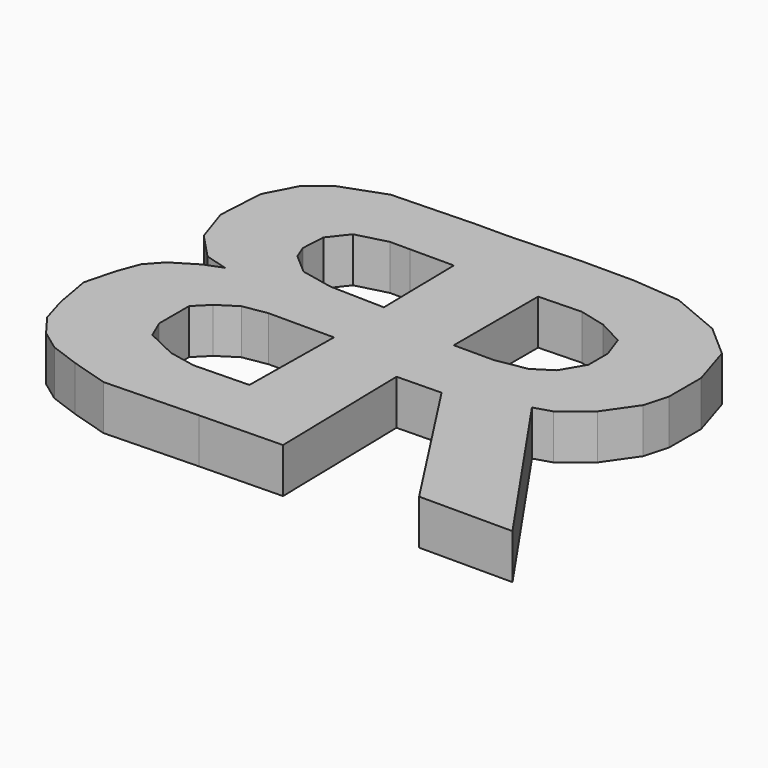
from build123d import *

# Parameters (mm, degrees)
F1_DEPTH = 6.35
F2_DEPTH = 6.35


with BuildPart() as f1:
    # F0 (on Top) → F1 (new body)
    with BuildSketch(Plane.XY):
        Polygon((6.785307, 32.889859), (6.973788, 23.842792), (6.785307, 9.141308), (6.973781, 0), (18.656539, 0.240873), (18.232433, 20.810728), (24.50015, 20.939954), (38.073074, 0), (51.266711, 0), (34.491945, 24.408581), (36.942191, 25.162537), (40.711805, 28.178345), (43.727491, 32.513574), (44.669896, 35.906363), (44.669896, 41.561004), (42.785086, 47.592629), (38.261559, 51.55088), (31.099292, 54.566693), (24.313992, 55.132158), (16.774772, 55.132158), (6.7853, 54.755177), (6.565141, 45.518056), align=None)
        Polygon((18.471096, 30.628692), (18.471096, 45.519255), (24.502473, 45.707747), (28.272083, 44.765305), (31.853214, 42.880423), (32.9841, 39.676126), (32.9841, 36.283337), (31.099292, 33.079039), (28.460566, 31.382646), (24.125513, 30.628692), align=None, mode=Mode.SUBTRACT)
    extrude(amount=F1_DEPTH)

    # F0 (on Top) → F2 (join)
    with BuildSketch(Plane.XY):
        Polygon((-10.177946, 19.69622), (-8.293139, 21.581025), (-5.654412, 23.277351), (-2.261762, 23.842792), (6.973788, 23.842792), (6.785307, 32.889859), (-0.942398, 33.07834), (-5.46593, 34.020742), (-8.293139, 36.470992), (-9.047061, 38.355795), (-8.858582, 41.748447), (-6.785294, 44.387174), (-2.450243, 45.518057), (0.376968, 45.518057), (6.565141, 45.518056), (6.7853, 54.755177), (2.450247, 54.755177), (-9.424023, 54.376644), (-15.643883, 52.114875), (-18.471091, 49.85311), (-20.732858, 45.518057), (-21.109819, 38.921238), (-19.413493, 33.832264), (-16.020843, 30.251132), (-12.816672, 29.308728), (-15.266922, 28.366325), (-18.659571, 26.293041), (-20.544375, 24.219753), (-21.67526, 21.204065), (-22.806143, 16.86901), (-21.863741, 11.591555), (-20.732858, 7.821944), (-18.471091, 4.806255), (-15.643883, 2.732969), (-11.49731, 1.225124), (-6.219853, -0.376961), (6.973781, 0), (6.785307, 9.141308), (-0.942398, 8.952827), (-4.71201, 9.70675), (-9.047061, 11.780035), (-10.177946, 14.418763), (-10.177946, 17.057493), align=None)
    extrude(amount=F2_DEPTH)


solid = f1.part
